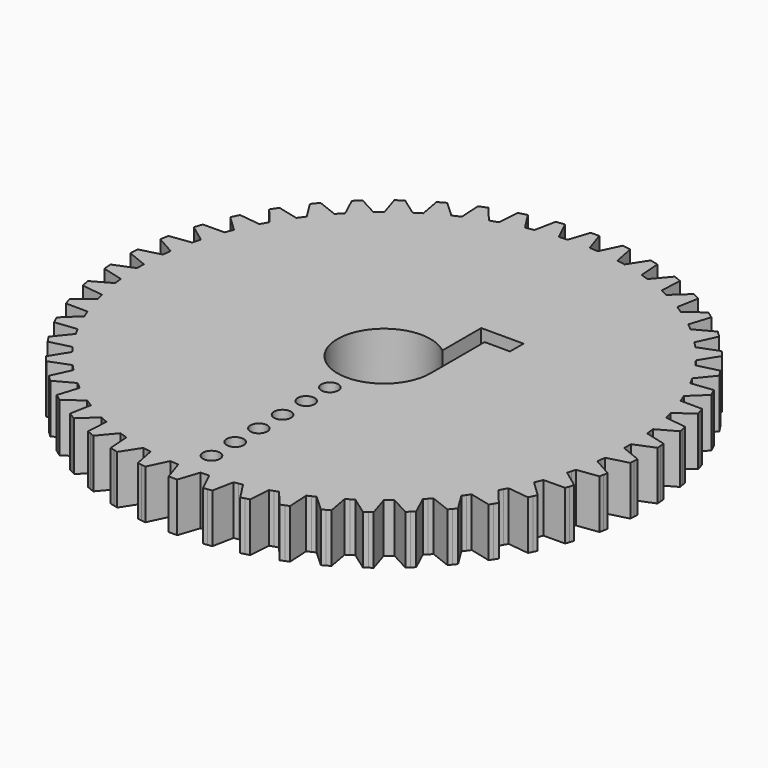
from build123d import *

# Parameters (mm, degrees)
F0_R     = 5.5
F1_DEPTH = 5.8
F3_DEPTH = 5.8
F4_R     = 1
F5_DEPTH = 6


with BuildPart() as f1:
    # F0 (on Top) → F1 (new body)
    with BuildSketch(Plane.XY):
        Polygon((0.5, 31.2), (0, 31.2), (-0.5, 31.2), (-1.309354, 28.774565), (-1.808367, 28.74317), (-2.30738, 28.711775), (-3.41434, 31.016645), (-3.910397, 30.953979), (-4.406454, 30.891312), (-4.905438, 28.383563), (-5.396582, 28.289873), (-5.887725, 28.196182), (-7.274833, 30.34414), (-7.759124, 30.219795), (-8.243416, 30.09545), (-8.424161, 27.544936), (-8.899689, 27.390428), (-9.375218, 27.235919), (-11.020598, 29.193089), (-11.485486, 29.009026), (-11.950374, 28.824964), (-11.81003, 26.271909), (-12.262444, 26.059019), (-12.714857, 25.846129), (-14.592561, 27.581645), (-15.030715, 27.340768), (-15.468868, 27.099892), (-15.009648, 24.584558), (-15.431812, 24.316644), (-15.853976, 24.048731), (-17.934391, 25.535223), (-18.3389, 25.24133), (-18.743408, 24.947438), (-17.972554, 22.509493), (-18.357811, 22.190781), (-18.743068, 21.872069), (-20.993385, 23.086095), (-21.35787, 22.743821), (-21.722354, 22.401548), (-20.652023, 20.079441), (-20.994296, 19.714957), (-21.33657, 19.350472), (-23.721301, 20.272885), (-24.040013, 19.887628), (-24.358725, 19.502372), (-23.005797, 17.332724), (-23.299689, 16.928215), (-23.593582, 16.523707), (-26.075118, 17.13996), (-26.343031, 16.717796), (-26.610945, 16.295632), (-24.996756, 14.312659), (-25.237632, 13.874506), (-25.478509, 13.436352), (-28.017714, 13.736727), (-28.230604, 13.284314), (-28.443494, 12.8319), (-26.593501, 11.066875), (-26.777563, 10.601987), (-26.961625, 10.137099), (-29.518455, 10.116858), (-29.672963, 9.64133), (-29.827472, 9.165802), (-27.77085, 7.64656), (-27.895195, 7.162269), (-28.01954, 6.677977), (-30.553672, 6.337441), (-30.647362, 5.846297), (-30.741053, 5.355153), (-28.510237, 4.105654), (-28.572903, 3.609597), (-28.63557, 3.11354), (-31.107039, 2.458078), (-31.138434, 1.959064), (-31.169829, 1.460051), (-28.8, 0.5), (-28.8, 0), (-28.8, -0.5), (-31.169829, -1.460051), (-31.138434, -1.959064), (-31.107039, -2.458078), (-28.63557, -3.11354), (-28.572903, -3.609597), (-28.510237, -4.105654), (-30.741053, -5.355153), (-30.647362, -5.846297), (-30.553672, -6.337441), (-28.01954, -6.677977), (-27.895195, -7.162269), (-27.77085, -7.64656), (-29.827472, -9.165802), (-29.672963, -9.64133), (-29.518455, -10.116858), (-26.961625, -10.137099), (-26.777563, -10.601987), (-26.593501, -11.066875), (-28.443494, -12.8319), (-28.230604, -13.284314), (-28.017714, -13.736727), (-25.478509, -13.436352), (-25.237632, -13.874506), (-24.996756, -14.312659), (-26.610945, -16.295632), (-26.343031, -16.717796), (-26.075118, -17.13996), (-23.593582, -16.523707), (-23.299689, -16.928215), (-23.005797, -17.332724), (-24.358725, -19.502372), (-24.040013, -19.887628), (-23.721301, -20.272885), (-21.33657, -19.350472), (-20.994296, -19.714957), (-20.652023, -20.079441), (-21.722354, -22.401548), (-21.35787, -22.743821), (-20.993385, -23.086095), (-18.743068, -21.872069), (-18.357811, -22.190781), (-17.972554, -22.509493), (-18.743408, -24.947438), (-18.3389, -25.24133), (-17.934391, -25.535223), (-15.853976, -24.048731), (-15.431812, -24.316644), (-15.009648, -24.584558), (-15.468868, -27.099892), (-15.030715, -27.340768), (-14.592561, -27.581645), (-12.714857, -25.846129), (-12.262444, -26.059019), (-11.81003, -26.271909), (-11.950374, -28.824964), (-11.485486, -29.009026), (-11.020598, -29.193089), (-9.375218, -27.235919), (-8.899689, -27.390428), (-8.424161, -27.544936), (-8.243416, -30.09545), (-7.759124, -30.219795), (-7.274833, -30.34414), (-5.887725, -28.196182), (-5.396582, -28.289873), (-4.905438, -28.383563), (-4.406454, -30.891312), (-3.910397, -30.953979), (-3.41434, -31.016645), (-2.30738, -28.711775), (-1.808367, -28.74317), (-1.309354, -28.774565), (-0.5, -31.2), (0, -31.2), (0.5, -31.2), (1.309354, -28.774565), (1.808367, -28.74317), (2.30738, -28.711775), (3.41434, -31.016645), (3.910397, -30.953979), (4.406454, -30.891312), (4.905438, -28.383563), (5.396582, -28.289873), (5.887725, -28.196182), (7.274833, -30.34414), (7.759124, -30.219795), (8.243416, -30.09545), (8.424161, -27.544936), (8.899689, -27.390428), (9.375218, -27.235919), (11.020598, -29.193089), (11.485486, -29.009026), (11.950374, -28.824964), (11.81003, -26.271909), (12.262444, -26.059019), (12.714857, -25.846129), (14.592561, -27.581645), (15.030715, -27.340768), (15.468868, -27.099892), (15.009648, -24.584558), (15.431812, -24.316644), (15.853976, -24.048731), (17.934391, -25.535223), (18.3389, -25.24133), (18.743408, -24.947438), (17.972554, -22.509493), (18.357811, -22.190781), (18.743068, -21.872069), (20.993385, -23.086095), (21.35787, -22.743821), (21.722354, -22.401548), (20.652023, -20.079441), (20.994296, -19.714957), (21.33657, -19.350472), (23.721301, -20.272885), (24.040013, -19.887628), (24.358725, -19.502372), (23.005797, -17.332724), (23.299689, -16.928215), (23.593582, -16.523707), (26.075118, -17.13996), (26.343031, -16.717796), (26.610945, -16.295632), (24.996756, -14.312659), (25.237632, -13.874506), (25.478509, -13.436352), (28.017714, -13.736727), (28.230604, -13.284314), (28.443494, -12.8319), (26.593501, -11.066875), (26.777563, -10.601987), (26.961625, -10.137099), (29.518455, -10.116858), (29.672963, -9.64133), (29.827472, -9.165802), (27.77085, -7.64656), (27.895195, -7.162269), (28.01954, -6.677977), (30.553672, -6.337441), (30.647362, -5.846297), (30.741053, -5.355153), (28.510237, -4.105654), (28.572903, -3.609597), (28.63557, -3.11354), (31.107039, -2.458078), (31.138434, -1.959064), (31.169829, -1.460051), (28.8, -0.5), (28.8, 0), (28.8, 0.5), (31.169829, 1.460051), (31.138434, 1.959064), (31.107039, 2.458078), (28.63557, 3.11354), (28.572903, 3.609597), (28.510237, 4.105654), (30.741053, 5.355153), (30.647362, 5.846297), (30.553672, 6.337441), (28.01954, 6.677977), (27.895195, 7.162269), (27.77085, 7.64656), (29.827472, 9.165802), (29.672963, 9.64133), (29.518455, 10.116858), (26.961625, 10.137099), (26.777563, 10.601987), (26.593501, 11.066875), (28.443494, 12.8319), (28.230604, 13.284314), (28.017714, 13.736727), (25.478509, 13.436352), (25.237632, 13.874506), (24.996756, 14.312659), (26.610945, 16.295632), (26.343031, 16.717796), (26.075118, 17.13996), (23.593582, 16.523707), (23.299689, 16.928215), (23.005797, 17.332724), (24.358725, 19.502372), (24.040013, 19.887628), (23.721301, 20.272885), (21.33657, 19.350472), (20.994296, 19.714957), (20.652023, 20.079441), (21.722354, 22.401548), (21.35787, 22.743821), (20.993385, 23.086095), (18.743068, 21.872069), (18.357811, 22.190781), (17.972554, 22.509493), (18.743408, 24.947438), (18.3389, 25.24133), (17.934391, 25.535223), (15.853976, 24.048731), (15.431812, 24.316644), (15.009648, 24.584558), (15.468868, 27.099892), (15.030715, 27.340768), (14.592561, 27.581645), (12.714857, 25.846129), (12.262444, 26.059019), (11.81003, 26.271909), (11.950374, 28.824964), (11.485486, 29.009026), (11.020598, 29.193089), (9.375218, 27.235919), (8.899689, 27.390428), (8.424161, 27.544936), (8.243416, 30.09545), (7.759124, 30.219795), (7.274833, 30.34414), (5.887725, 28.196182), (5.396582, 28.289873), (4.905438, 28.383563), (4.406454, 30.891312), (3.910397, 30.953979), (3.41434, 31.016645), (2.30738, 28.711775), (1.808367, 28.74317), (1.309354, 28.774565), align=None)
        Circle(F0_R, mode=Mode.SUBTRACT)
    extrude(amount=F1_DEPTH)

    # F2 (on face) → F3 (cut, through all)
    with BuildSketch(Plane.XY.offset(5.8)):
        Polygon((3.5, 0), (5.5, 0), (5.5, 8), (8.5, 8), (8.5, 10), (3.5, 10), align=None)
    extrude(amount=-F3_DEPTH, mode=Mode.SUBTRACT)

    # F4 (on face) → F5 (cut)
    with BuildSketch(Plane.XY.offset(5.8)):
        with Locations((0, -8)):
            Circle(F4_R)
        with Locations((0, -11.5)):
            Circle(F4_R)
        with Locations((0, -15)):
            Circle(F4_R)
        with Locations((0, -18.5)):
            Circle(F4_R)
        with Locations((0, -22)):
            Circle(F4_R)
        with Locations((0, -25.5)):
            Circle(F4_R)
    extrude(amount=-F5_DEPTH, mode=Mode.SUBTRACT)


solid = f1.part
